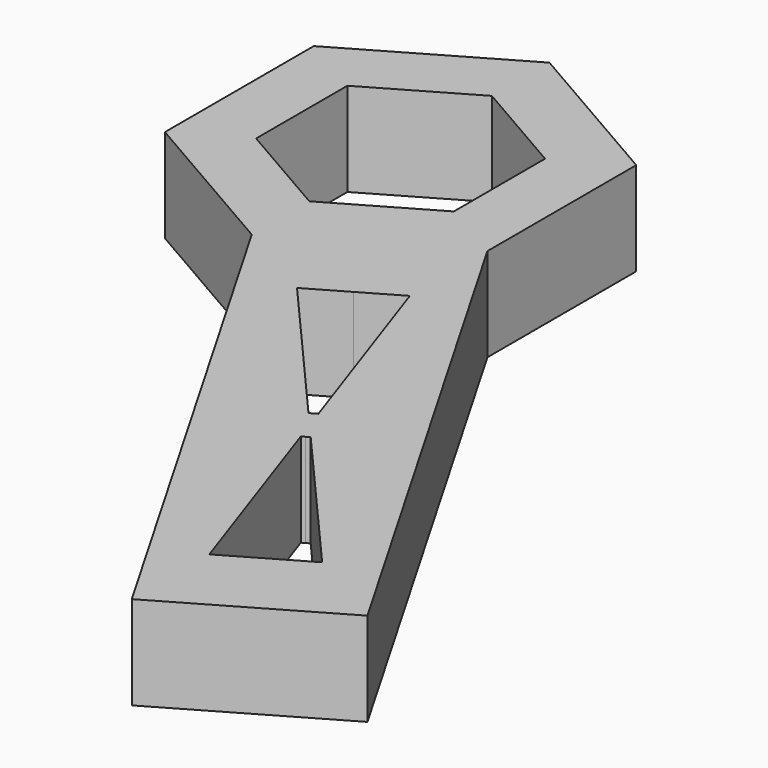
from build123d import *

# Parameters (mm, degrees)
F1_DEPTH = 3.81
F2_DEPTH = 25.4
F4_DEPTH = 25.4


with BuildPart() as f1:
    # F0 (on Top) → F1 (new body)
    with BuildSketch(Plane.XY):
        Polygon((6.5642443103, 3.7926732977), (-0.0024292689, 7.5811389783), (-6.5666735793, 3.7884656805), (-6.5642443103, -3.7926732977), (0.0024292689, -7.5811389783), (6.5666735793, -3.7884656805), align=None)
        Polygon((-4.0262038002, 2.3228099792), (-0.00148945, 4.6481997614), (4.0247143502, 2.3253897822), (4.0262038002, -2.3228099792), (0.00148945, -4.6481997614), (-4.0247143502, -2.3253897822), align=None, mode=Mode.SUBTRACT)
    extrude(amount=F1_DEPTH)

    # F2 (add): a face of the model
    f2_faces = [f1.faces().sort_by_distance(p)[0] for p in [
        (3.2845514241, -5.6848023294, 1.905),
    ]]
    extrude(f2_faces, amount=F2_DEPTH)

    # F3 (on face) → F4 (cut)
    with BuildSketch(Plane.XY.offset(3.81)):
        Polygon((3.4240530816, -9.5536917259), (9.0931520865, -16.0562525411), (9.3687364086, -15.8970260939), (6.5666733931, -7.7379561169), (4.9953633304, -8.6458238677), align=None)
        Polygon((9.9074144135, -17.4655531656), (12.7094772591, -25.6246232408), (14.2807875079, -24.7167553825), (10.0452065827, -17.3859399373), align=None)
        Polygon((10.0452065827, -17.3859399373), (14.2807875079, -24.7167553825), (15.8520975706, -23.8088876318), (10.1829987356, -17.3063267185), align=None)
    extrude(amount=-F4_DEPTH, mode=Mode.SUBTRACT)


solid = f1.part
